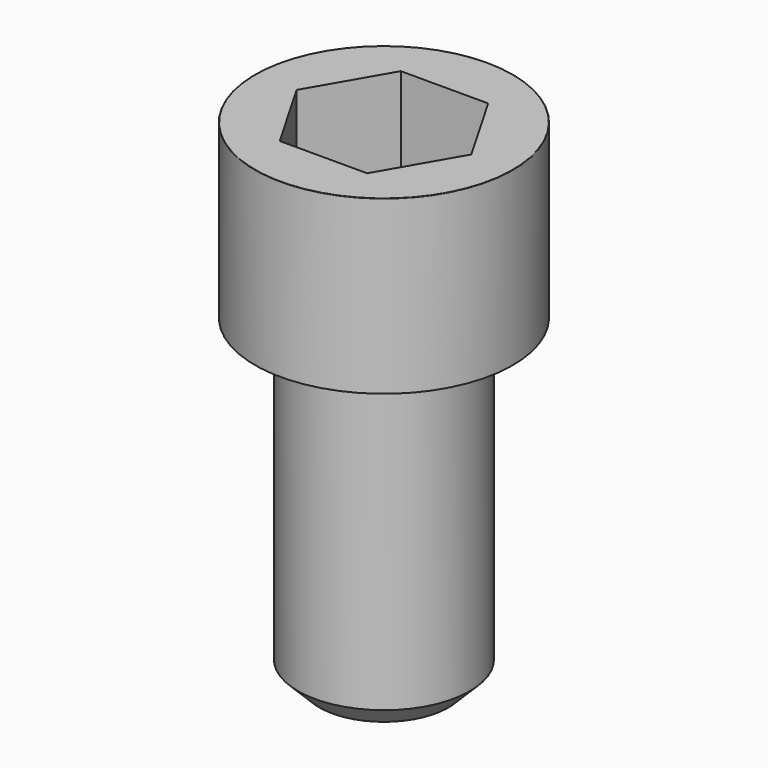
from build123d import *

# Parameters (mm, degrees)
POCKET_DEPTH = 14.08


with BuildPart() as part:
    # Sketch → Revolve (revolve)
    with BuildSketch(Plane.YZ):
        with BuildLine():
            Line((7.999, 0), (12, 0))
            Line((12, 0), (12, 15.97229))
            ThreePointArc((12, 15.97229), (11.991884, 15.991884), (11.97229, 16))
            Line((11.97229, 16), (0, 16))
            Line((0, -30), (0, 16))
            Line((6, -30), (0, -30))
            Line((8, -28), (6, -30))
            Line((8, -0.2), (8, -28))
            Line((7.999, 0), (8, -0.2))
        make_face()
    revolve(axis=Axis((0, 0, 0), (0, 0, 1)))

    # Sketch001 → Pocket (cut)
    with BuildSketch(Plane.XY.offset(16)):
        Polygon((8.129092, 0), (4.064546, 7.04), (-4.064546, 7.04), (-8.129092, 0), (-4.064546, -7.04), (4.064546, -7.04), align=None)
    extrude(amount=-POCKET_DEPTH, mode=Mode.SUBTRACT)


solid = part.part
